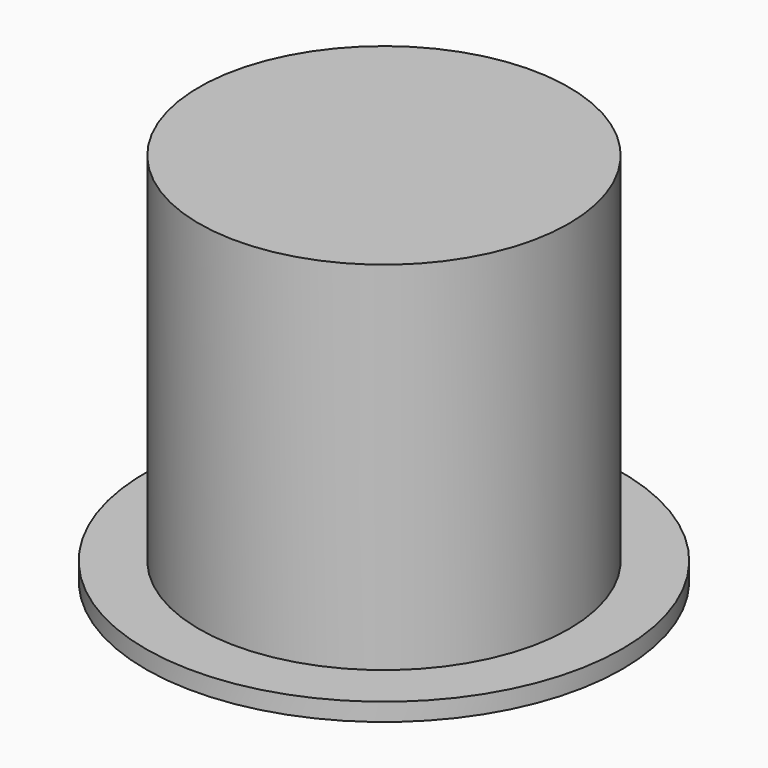
from build123d import *

# Parameters (mm, degrees)
SKETCH_R     = 51.8
PAD_DEPTH    = 100
SKETCH001_R  = 66.8
PAD001_DEPTH = 5


with BuildPart() as part:
    # Sketch → Pad (new body)
    with BuildSketch(Plane.XY):
        Circle(SKETCH_R)
    extrude(amount=PAD_DEPTH)

    # Sketch001 → Pad001 (join)
    with BuildSketch(Plane.XY):
        Circle(SKETCH001_R)
    extrude(amount=-PAD001_DEPTH)


solid = part.part
